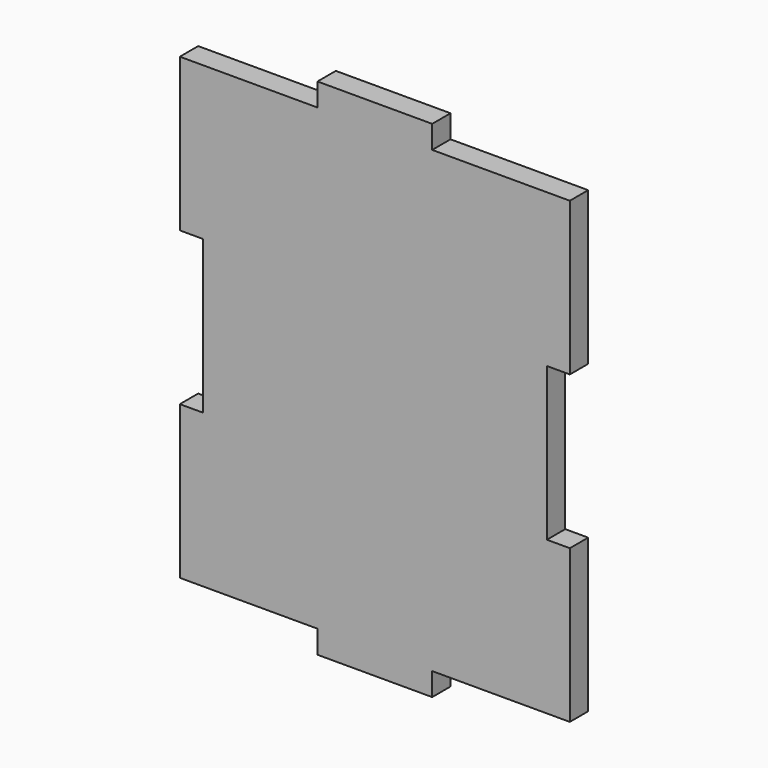
from build123d import *

# Parameters (mm, degrees)
F1_DEPTH = 3


with BuildPart() as f1:
    # F0 (on Front) → F1 (new body)
    with BuildSketch(Plane.XZ):
        Polygon((7.5, 33), (0, 33), (-7.5, 33), (-7.5, 30), (-25.5, 30), (-25.5, 10), (-22.5, 10), (-22.5, 0), (-22.5, -10), (-25.5, -10), (-25.5, -30), (-7.5, -30), (-7.5, -33), (0, -33), (7.5, -33), (7.5, -30), (25.5, -30), (25.5, -10), (22.5, -10), (22.5, 0), (22.5, 10), (25.5, 10), (25.5, 30), (7.5, 30), align=None)
    extrude(amount=F1_DEPTH)


solid = f1.part
